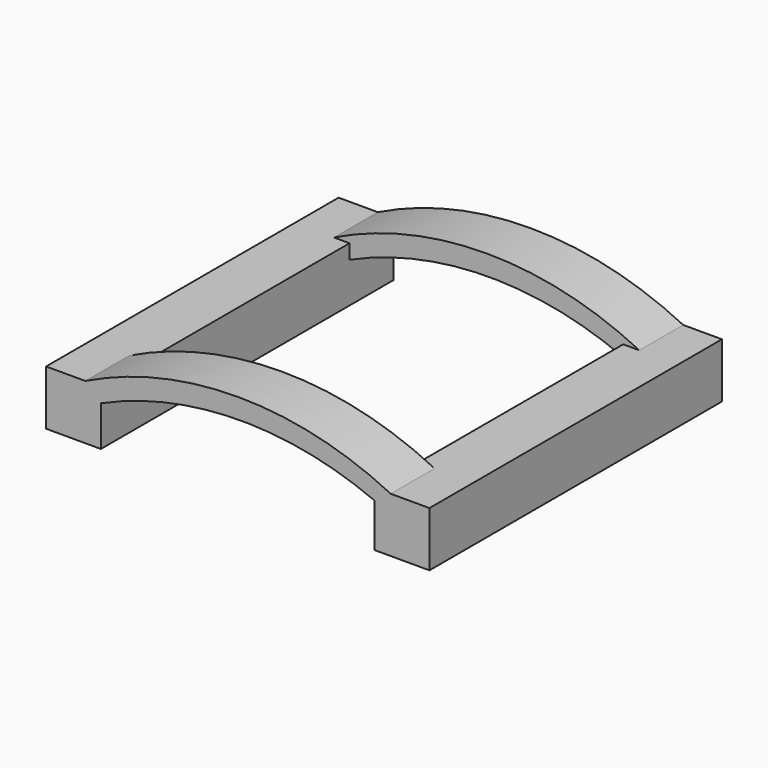
from build123d import *

# Parameters (mm, degrees)
F0_W     = 3
F0_H     = 20
F1_DEPTH = 3
F3_DEPTH = 3
F4_START = -17
F4_DEPTH = 3


with BuildPart() as f1:
    # F0 (on Top) → F1 (new body)
    with BuildSketch(Plane.XY):
        with Locations((1.5, 10)):
            Rectangle(F0_W, F0_H)
    extrude(amount=F1_DEPTH)



with BuildPart() as f1b:
    # F0 (on Top) → F1, piece 2 (new body)
    with BuildSketch(Plane.XY):
        with Locations((19.4732441902, 10)):
            Rectangle(F0_W, F0_H)
    extrude(amount=F1_DEPTH)


with BuildPart() as f1_1:
    add(f1.part)

    add(f1b.part)  # F3 merges F1b
    # F2 (on Front) → F3 (join)
    with BuildSketch(Plane.XZ):
        with BuildLine():
            ThreePointArc((2.9794946313, 2.1942069288), (10.4704971824, 3.8575045035), (17.9987903684, 2.37208209))
            Line((17.9987903684, 2.37208209), (18.889406696, 2.9833931476))
            ThreePointArc((18.889406696, 2.9833931476), (10.4870498812, 4.9495737182), (2.087746514, 2.970389789))
            Line((2.087746514, 2.970389789), (2.9794946313, 2.1942069288))
        make_face()
    extrude(amount=-F3_DEPTH)

    # F2 (on Front) → F4 (join)
    with BuildSketch(Plane.XZ.offset(F4_START)):
        with BuildLine():
            ThreePointArc((2.9794946313, 2.1942069288), (10.4704971824, 3.8575045035), (17.9987903684, 2.37208209))
            Line((17.9987903684, 2.37208209), (18.889406696, 2.9833931476))
            ThreePointArc((18.889406696, 2.9833931476), (10.4870498812, 4.9495737182), (2.087746514, 2.970389789))
            Line((2.087746514, 2.970389789), (2.9794946313, 2.1942069288))
        make_face()
    extrude(amount=-F4_DEPTH)


solid = f1_1.part
